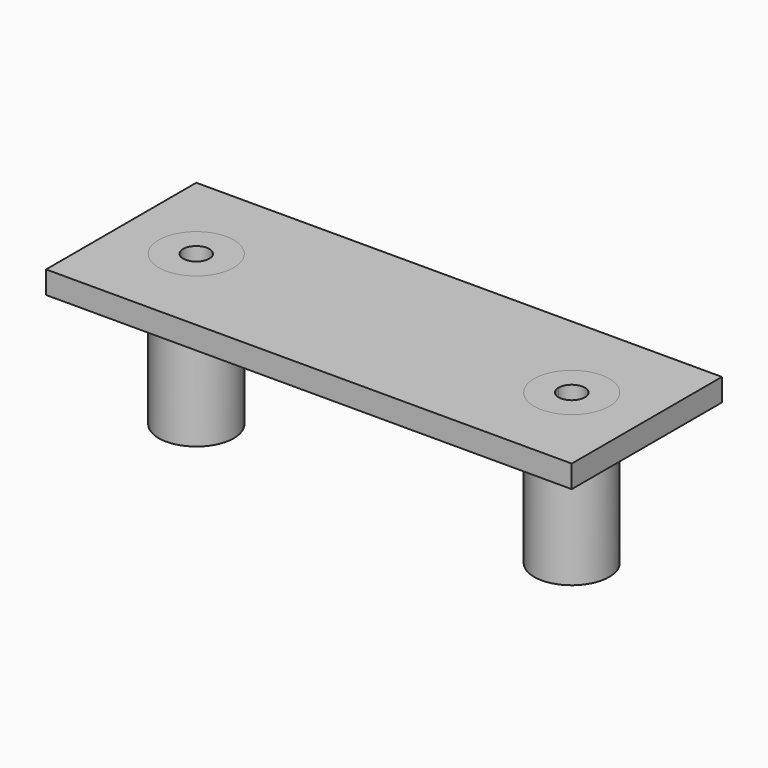
from build123d import *

# Parameters (mm, degrees)
F0_W     = 70
F0_H     = 25
F0_R     = 1.75
F1_DEPTH = 3
F2_R     = 5
F2_R_2   = 1.75
F3_DEPTH = 20


with BuildPart() as f1:
    # F0 (on Top) → F1 (new body)
    with BuildSketch(Plane.XY):
        Rectangle(F0_W, F0_H)
        with Locations((-25, 0)):
            Circle(F0_R, mode=Mode.SUBTRACT)
        with BuildLine():
            ThreePointArc((26.75, 0), (25, -1.75), (23.25, 0))
            ThreePointArc((23.25, 0), (25, 1.75), (26.75, 0))
        make_face(mode=Mode.SUBTRACT)
    extrude(amount=F1_DEPTH)

    # F2 (on face) → F3 (join)
    with BuildSketch(Plane.XY.offset(3)):
        with Locations((-25, 0)):
            Circle(F2_R)
        with Locations((-25, 0)):
            Circle(F2_R_2, mode=Mode.SUBTRACT)
        with Locations((25, 0)):
            Circle(F2_R)
        with Locations((25, 0)):
            Circle(F2_R_2, mode=Mode.SUBTRACT)
    extrude(amount=-F3_DEPTH)


solid = f1.part
